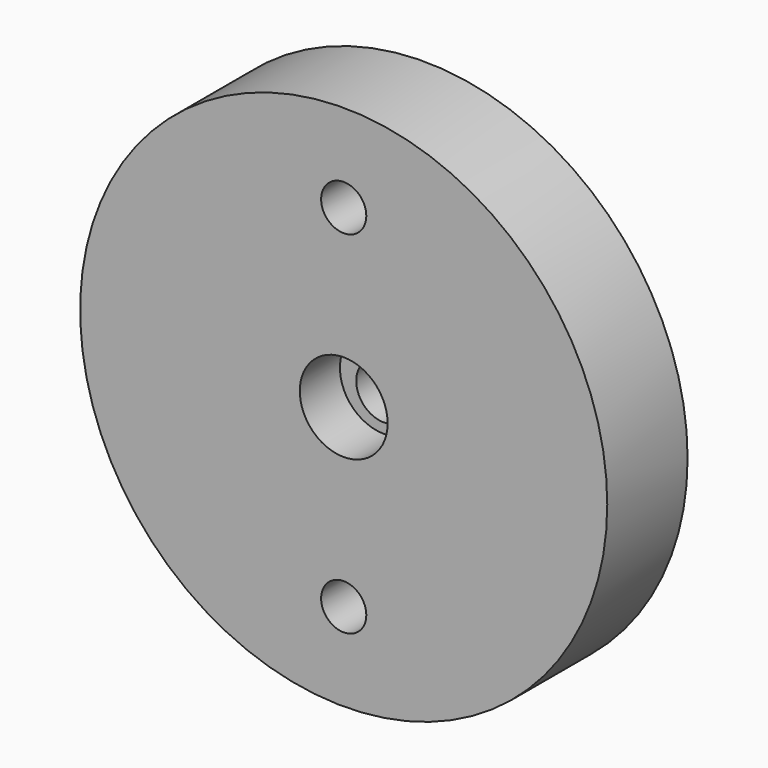
from build123d import *

# Parameters (mm, degrees)
CYLINDER060_R          = 3.5
CYLINDER060_DEPTH      = 10
CYLINDER060_ROLL_ANGLE = 90
CYLINDER059_R          = 1.8
CYLINDER059_DEPTH      = 48
CYLINDER059_ROLL_ANGLE = 90
CYLINDER058_R          = 3.5
CYLINDER058_DEPTH      = 10
CYLINDER058_ROLL_ANGLE = 90
CYLINDER057_R          = 3.5
CYLINDER057_DEPTH      = 10
CYLINDER057_ROLL_ANGLE = 90
CYLINDER051_R          = 1.8
CYLINDER051_DEPTH      = 100
CYLINDER051_ROLL_ANGLE = 90
CYLINDER056_R          = 2.2
CYLINDER056_DEPTH      = 100
CYLINDER056_ROLL_ANGLE = 90
CYLINDER053_R          = 21
CYLINDER053_DEPTH      = 8
CYLINDER053_ROLL_ANGLE = 90


with BuildPart() as cilindro060:
    # Cylinder060 → Cylinder060 (new body)
    with BuildSketch(Plane.XY):
        Circle(CYLINDER060_R)
    extrude(amount=CYLINDER060_DEPTH)


with BuildPart() as cilindro060_1:
    # Cylinder060 roll: moved
    add(cilindro060.part.rotate(Axis((0, 0, 0), (1, 0, 0)), CYLINDER060_ROLL_ANGLE))


with BuildPart() as cilindro060_2:
    # Cylinder060 placement: moved
    add(cilindro060_1.part.moved(Location((38, 41, -5.5))))


with BuildPart() as cilindro059:
    # Cylinder059 → Cylinder059 (new body)
    with BuildSketch(Plane.XY):
        Circle(CYLINDER059_R)
    extrude(amount=CYLINDER059_DEPTH)


with BuildPart() as cilindro059_1:
    # Cylinder059 roll: moved
    add(cilindro059.part.rotate(Axis((0, 0, 0), (1, 0, 0)), CYLINDER059_ROLL_ANGLE))


with BuildPart() as cilindro059_2:
    # Cylinder059 placement: moved
    add(cilindro059_1.part.moved(Location((38, 41, -5.5))))


with BuildPart() as cilindro058:
    # Cylinder058 → Cylinder058 (new body)
    with BuildSketch(Plane.XY):
        Circle(CYLINDER058_R)
    extrude(amount=CYLINDER058_DEPTH)


with BuildPart() as cilindro058_1:
    # Cylinder058 roll: moved
    add(cilindro058.part.rotate(Axis((0, 0, 0), (1, 0, 0)), CYLINDER058_ROLL_ANGLE))


with BuildPart() as cilindro058_2:
    # Cylinder058 placement: moved
    add(cilindro058_1.part.moved(Location((38, 41, 22.5))))


with BuildPart() as cilindro057:
    # Cylinder057 → Cylinder057 (new body)
    with BuildSketch(Plane.XY):
        Circle(CYLINDER057_R)
    extrude(amount=CYLINDER057_DEPTH)


with BuildPart() as cilindro057_1:
    # Cylinder057 roll: moved
    add(cilindro057.part.rotate(Axis((0, 0, 0), (1, 0, 0)), CYLINDER057_ROLL_ANGLE))


with BuildPart() as cilindro057_2:
    # Cylinder057 placement: moved
    add(cilindro057_1.part.moved(Location((38, 31, 8.5))))


with BuildPart() as cilindro051:
    # Cylinder051 → Cylinder051 (new body)
    with BuildSketch(Plane.XY):
        Circle(CYLINDER051_R)
    extrude(amount=CYLINDER051_DEPTH)


with BuildPart() as cilindro051_1:
    # Cylinder051 roll: moved
    add(cilindro051.part.rotate(Axis((0, 0, 0), (1, 0, 0)), CYLINDER051_ROLL_ANGLE))


with BuildPart() as cilindro051_2:
    # Cylinder051 placement: moved
    add(cilindro051_1.part.moved(Location((38, 80, 22.5))))


with BuildPart() as cilindro056:
    # Cylinder056 → Cylinder056 (new body)
    with BuildSketch(Plane.XY):
        Circle(CYLINDER056_R)
    extrude(amount=CYLINDER056_DEPTH)


with BuildPart() as cilindro056_1:
    # Cylinder056 roll: moved
    add(cilindro056.part.rotate(Axis((0, 0, 0), (1, 0, 0)), CYLINDER056_ROLL_ANGLE))


with BuildPart() as cilindro056_2:
    # Cylinder056 placement: moved
    add(cilindro056_1.part.moved(Location((38, 94, 8))))


with BuildPart() as cut045:
    # Cylinder053 → Cylinder053 (new body)
    with BuildSketch(Plane.XY):
        Circle(CYLINDER053_R)
    extrude(amount=CYLINDER053_DEPTH)


with BuildPart() as cut045_1:
    # Cylinder053 roll: moved
    add(cut045.part.rotate(Axis((0, 0, 0), (1, 0, 0)), CYLINDER053_ROLL_ANGLE))


with BuildPart() as cut045_2:
    # Cylinder053 placement: moved
    add(cut045_1.part.moved(Location((38, 35, 8.5))))

    # Cut040: cut Cilindro056
    add(cilindro056_2.part, mode=Mode.SUBTRACT)

    # Cut041: cut Cilindro051
    add(cilindro051_2.part, mode=Mode.SUBTRACT)

    # Cut042: cut Cilindro057
    add(cilindro057_2.part, mode=Mode.SUBTRACT)

    # Cut043: cut Cilindro058
    add(cilindro058_2.part, mode=Mode.SUBTRACT)

    # Cut044: cut Cilindro059
    add(cilindro059_2.part, mode=Mode.SUBTRACT)

    # Cut045: cut Cilindro060
    add(cilindro060_2.part, mode=Mode.SUBTRACT)


solid = cut045_2.part
